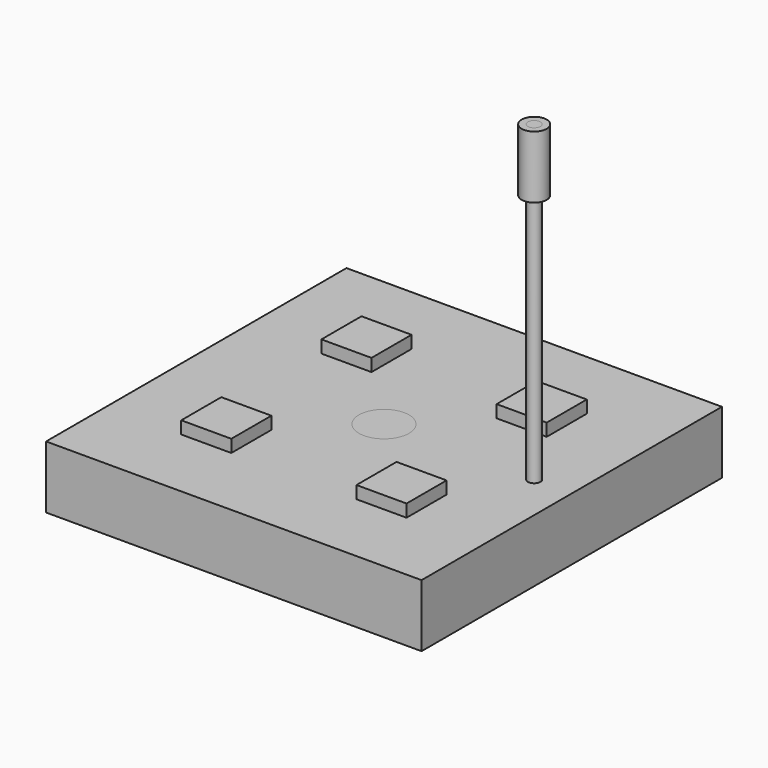
from build123d import *

# Parameters (mm, degrees)
F0_W           = 30
F0_H           = 30
F1_DEPTH       = 5
F3_D           = 1
F3_DEPTH       = 3
F3_CSINK_D     = 3
F3_CSINK_ANGLE = 120
F3_TIP         = 0.3004303095
F5_W           = 4
F5_H           = 4
F6_DEPTH       = 6
F10_R          = 0.5
F11_DEPTH      = 25
F12_R          = 1
F13_DEPTH      = 5
F15_R          = 2
F16_DEPTH      = 5


with BuildPart() as f1:
    # F0 (on Top) → F1 (new body)
    with BuildSketch(Plane.XY):
        Rectangle(F0_W, F0_H)
    extrude(amount=F1_DEPTH)

    # F3
    with Locations(Plane.XY.offset(5)):
        with Locations((-7, 7), (-7, -7), (7, -7), (7, 7)):
            CounterSinkHole(F3_D / 2, F3_CSINK_D / 2, depth=F3_DEPTH, counter_sink_angle=F3_CSINK_ANGLE)
            with Locations((0, 0, -(F3_DEPTH + F3_TIP / 2))):  # 118° drill point
                Cone(0, F3_D / 2, F3_TIP, mode=Mode.SUBTRACT)


with BuildPart() as f6:
    # F5 (on offset) → F6 (new body, through all)
    with BuildSketch(Plane.XY.offset(6)):
        with Locations((-7, 7)):
            Rectangle(F5_W, F5_H)
    extrude(amount=-F6_DEPTH)


with BuildPart() as f7_1:
    # F7: instance of F6
    add(f6.part.mirror(Plane.YZ))


with BuildPart() as f8_1:
    # F8: instance of F6
    add(f6.part.mirror(Plane.XZ))

    # F9: cut F1
    add(f1.part, mode=Mode.SUBTRACT)


with BuildPart() as f8_2:
    # F8: instance of F7_1
    add(f7_1.part.mirror(Plane.XZ))

    # F9: cut F1
    add(f1.part, mode=Mode.SUBTRACT)


with BuildPart() as f6_1:
    add(f6.part)

    # F9: cut F1
    add(f1.part, mode=Mode.SUBTRACT)


with BuildPart() as f7_1_1:
    add(f7_1.part)

    # F9: cut F1
    add(f1.part, mode=Mode.SUBTRACT)


with BuildPart() as f1_1:
    add(f1.part)

    # F10 (on face) → F11 (join)
    with BuildSketch(Plane.XY.offset(5)):
        with Locations((12, 0)):
            Circle(F10_R)
    extrude(amount=F11_DEPTH)


with BuildPart() as f13:
    # F12 (on face) → F13 (new body)
    with BuildSketch(Plane.XY.offset(30)):
        with Locations((12, 0)):
            Circle(F12_R)
    extrude(amount=-F13_DEPTH)

    # F14: cut F1
    add(f1_1.part, mode=Mode.SUBTRACT)


with BuildPart() as f16:
    # F15 (on face) → F16 (new body, through all)
    with BuildSketch(Plane.XY.offset(5)):
        Circle(F15_R)
    extrude(amount=-F16_DEPTH)


with BuildPart() as f1_2:
    add(f1_1.part)

    # F17: cut F16
    add(f16.part, mode=Mode.SUBTRACT)


solid = Compound([f8_1.part, f8_2.part, f6_1.part, f7_1_1.part, f13.part, f16.part, f1_2.part])
